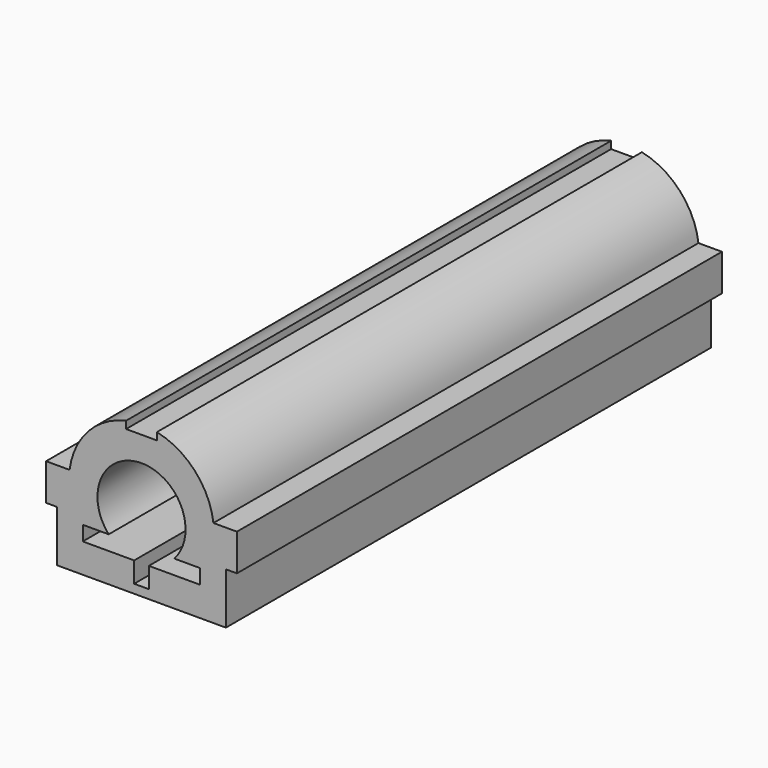
from build123d import *

# Parameters (mm, degrees)
F0_R     = 3
F1_DEPTH = 18.2
F3_DEPTH = 8.5
F5_DEPTH = 14.6
F6_R     = 0.5
F7_DEPTH = 0.5


with BuildPart() as f1:
    # F0 (on Front) → F1 (new body)
    with BuildSketch(Plane.XZ):
        with BuildLine():
            Line((-15.090977, -27.410671), (-15.090977, -30.910671))
            Line((-15.090977, -30.910671), (-3.590977, -30.910671))
            Line((-3.590977, -30.910671), (-3.590977, -27.410671))
            Line((-3.590977, -27.410671), (-2.840977, -27.410671))
            Line((-2.840977, -27.410671), (-2.840977, -24.910671))
            Line((-2.840977, -24.910671), (-3.590977, -24.910671))
            Line((-3.590977, -24.910671), (-4.440977, -24.910671))
            ThreePointArc((-4.440977, -24.910671), (-5.699463, -22.199699), (-8.290977, -20.710671))
            Line((-8.290977, -20.710671), (-8.290977, -21.210671))
            Line((-8.290977, -21.210671), (-10.390977, -21.210671))
            Line((-10.390977, -21.210671), (-10.390977, -20.710671))
            ThreePointArc((-10.390977, -20.710671), (-12.982492, -22.199699), (-14.240977, -24.910671))
            Line((-14.240977, -24.910671), (-15.090977, -24.910671))
            Line((-15.090977, -24.910671), (-15.840977, -24.910671))
            Line((-15.840977, -24.910671), (-15.840977, -27.410671))
            Line((-15.840977, -27.410671), (-15.090977, -27.410671))
        make_face()
        with Locations((-9.340977, -25.910671)):
            Circle(F0_R, mode=Mode.SUBTRACT)
    extrude(amount=F1_DEPTH)

    # F2 (on face) → F3 (join)
    with BuildSketch(Plane.XZ.offset(18.2)):
        with BuildLine():
            Line((-15.090977, -27.410671), (-15.090977, -30.910671))
            Line((-15.090977, -30.910671), (-3.590977, -30.910671))
            Line((-3.590977, -30.910671), (-3.590977, -27.410671))
            Line((-3.590977, -27.410671), (-2.840977, -27.410671))
            Line((-2.840977, -27.410671), (-2.840977, -24.910671))
            Line((-2.840977, -24.910671), (-3.590977, -24.910671))
            Line((-3.590977, -24.910671), (-4.440977, -24.910671))
            ThreePointArc((-4.440977, -24.910671), (-5.699463, -22.199699), (-8.290977, -20.710671))
            Line((-8.290977, -20.710671), (-8.290977, -21.210671))
            Line((-8.290977, -21.210671), (-10.390977, -21.210671))
            Line((-10.390977, -21.210671), (-10.390977, -20.710671))
            ThreePointArc((-10.390977, -20.710671), (-12.982492, -22.199699), (-14.240977, -24.910671))
            Line((-14.240977, -24.910671), (-15.090977, -24.910671))
            Line((-15.090977, -24.910671), (-15.840977, -24.910671))
            Line((-15.840977, -24.910671), (-15.840977, -27.410671))
            Line((-15.840977, -27.410671), (-15.090977, -27.410671))
        make_face()
    extrude(amount=F3_DEPTH)

    # F4 (on face) → F5 (join)
    with BuildSketch(Plane.XZ.offset(26.7)):
        with BuildLine():
            Line((-15.090977, -27.410671), (-15.090977, -30.910671))
            Line((-15.090977, -30.910671), (-3.590977, -30.910671))
            Line((-3.590977, -30.910671), (-3.590977, -27.410671))
            Line((-3.590977, -27.410671), (-2.840977, -27.410671))
            Line((-2.840977, -27.410671), (-2.840977, -24.910671))
            Line((-2.840977, -24.910671), (-3.590977, -24.910671))
            Line((-3.590977, -24.910671), (-4.440977, -24.910671))
            ThreePointArc((-4.440977, -24.910671), (-5.699463, -22.199699), (-8.290977, -20.710671))
            Line((-8.290977, -20.710671), (-8.290977, -21.210671))
            Line((-8.290977, -21.210671), (-10.390977, -21.210671))
            Line((-10.390977, -21.210671), (-10.390977, -20.710671))
            ThreePointArc((-10.390977, -20.710671), (-12.982492, -22.199699), (-14.240977, -24.910671))
            Line((-14.240977, -24.910671), (-15.090977, -24.910671))
            Line((-15.090977, -24.910671), (-15.840977, -24.910671))
            Line((-15.840977, -24.910671), (-15.840977, -27.410671))
            Line((-15.840977, -27.410671), (-15.090977, -27.410671))
        make_face()
        with BuildLine():
            ThreePointArc((-11.577045, -27.910671), (-9.340977, -22.910671), (-7.104909, -27.910671))
            Line((-7.104909, -27.910671), (-5.340977, -27.910671))
            Line((-5.340977, -27.910671), (-5.340977, -28.910671))
            Line((-5.340977, -28.910671), (-8.840977, -28.910671))
            Line((-8.840977, -28.910671), (-8.840977, -30.310671))
            Line((-8.840977, -30.310671), (-9.840977, -30.310671))
            Line((-9.840977, -30.310671), (-9.840977, -28.910671))
            Line((-9.840977, -28.910671), (-13.340977, -28.910671))
            Line((-13.340977, -28.910671), (-13.340977, -27.910671))
            Line((-13.340977, -27.910671), (-11.577045, -27.910671))
        make_face(mode=Mode.SUBTRACT)
    extrude(amount=F5_DEPTH)

    # F6 (on face) → F7 (cut)
    with BuildSketch(Plane(origin=(0, 0, -30.910671), x_dir=(1, 0, 0), z_dir=(0, 0, -1))):
        with Locations((-13.090977, 39.3)):
            Circle(F6_R)
    extrude(amount=-F7_DEPTH, mode=Mode.SUBTRACT)


solid = f1.part
